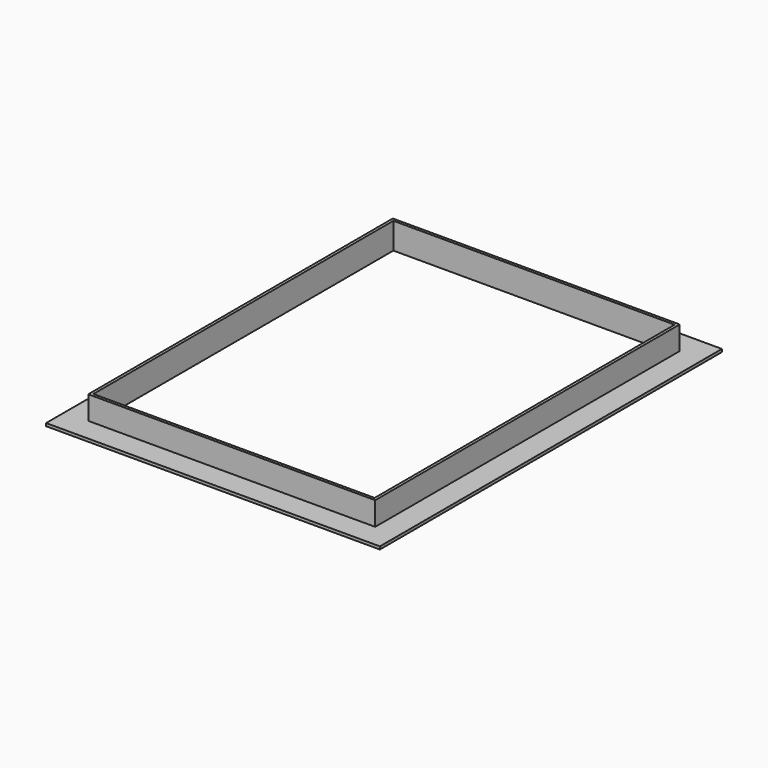
from build123d import *

# Parameters (mm, degrees)
SKETCH052_W            = 600
SKETCH052_H            = 60
PAD003_DEPTH           = 400
SKETCH004_W            = 612
SKETCH004_H            = 50
PAD004_DEPTH           = 406
SKETCH053_W            = 712
SKETCH053_H            = 912
PAD005_DEPTH           = 6
CUT001_PLACEMENT_ANGLE = 180


with BuildPart() as body002:
    # Sketch052 → Pad003 (new body, symmetric)
    with BuildSketch(Plane.XZ):
        with Locations((0, 30)):
            Rectangle(SKETCH052_W, SKETCH052_H)
    extrude(amount=PAD003_DEPTH, both=True)


with BuildPart() as cut001:
    # Sketch004 → Pad004 (new body, symmetric)
    with BuildSketch(Plane.XZ):
        with Locations((0, 25)):
            Rectangle(SKETCH004_W, SKETCH004_H)
    extrude(amount=PAD004_DEPTH, both=True)

    # Sketch053 (on Face3 of Pad004) → Pad005 (join)
    with BuildSketch(Plane(origin=(0, 0, 50), x_dir=(-1, 0, 0), z_dir=(0, 0, 1))):
        Rectangle(SKETCH053_W, SKETCH053_H)
    extrude(amount=PAD005_DEPTH)

    # Cut001: cut Body002
    add(body002.part, mode=Mode.SUBTRACT)


with BuildPart() as cut001_1:
    # Cut001 placement: moved
    add(cut001.part.rotate(Axis((0, 0, 0), (0, 1, 0)), CUT001_PLACEMENT_ANGLE))


solid = cut001_1.part
